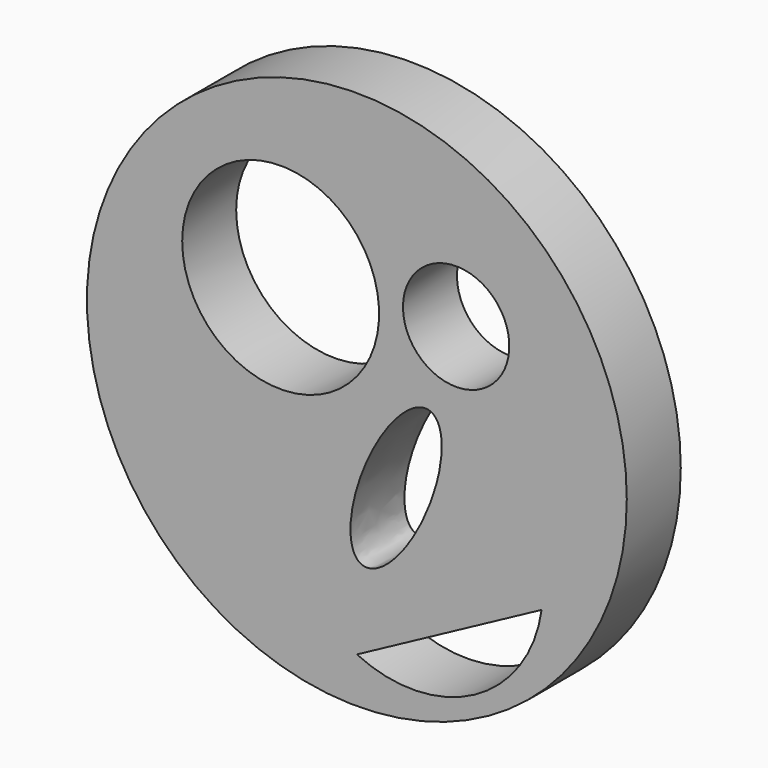
from build123d import *

# Parameters (mm, degrees)
F0_R     = 25.4
F1_DEPTH = 6.35
F2_R     = 5.0022521094
F2_R_2   = 9.2645571297
F3_DEPTH = 304.8


with BuildPart() as f1:
    # F0 (on Front) → F1 (new body)
    with BuildSketch(Plane.XZ):
        Circle(F0_R)
    extrude(amount=F1_DEPTH)

    # F2 (on face) → F3 (cut)
    with BuildSketch(Plane(origin=(0, 0, 0), x_dir=(-1, 0, 0), z_dir=(0, 1, 0))):
        with Locations((-9.3403114006, 9.0875271708)):
            Circle(F2_R)
        with Locations((7.1732723154, 7.7838213183)):
            Circle(F2_R_2)
        with BuildLine():
            add(Edge.make_bspline(
                [(-6.9501879625, 1.2653029989), (-11.791334102, -0.8704968986), (-4.4818707212, -10.8840809798), (2.8275926597, -20.8976650611), (0.3592754184, -8.7482810823), (-2.109041823, 3.4011028965), (-6.9501879625, 1.2653029989)],
                knots=[0, 0, 0, 2.0943951024, 2.0943951024, 4.1887902048, 4.1887902048, 6.2831853072, 6.2831853072, 6.2831853072], degree=2, weights=[1, 0.5, 1, 0.5, 1, 0.5, 1]))
        make_face()
        with BuildLine():
            Line((0, -21.1149472743), (-17.3798184842, -11.7717366666))
            ThreePointArc((-17.3798184842, -11.7717366666), (-11.0620797857, -20.8559465014), (0, -21.1149472743))
        make_face()
    extrude(amount=-F3_DEPTH, mode=Mode.SUBTRACT)


solid = f1.part
